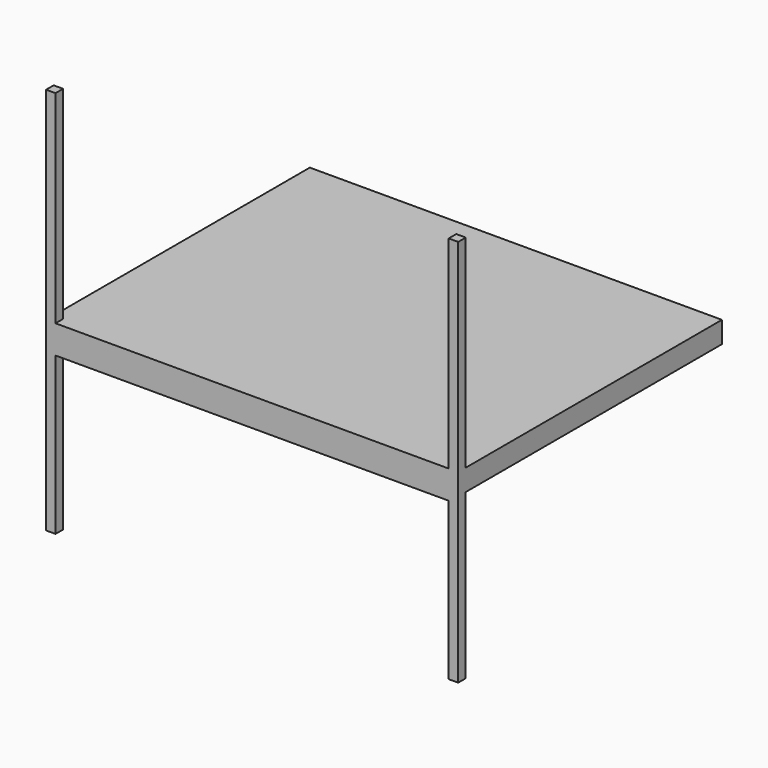
from build123d import *

# Parameters (mm, degrees)
F0_W          = 4876.8
F0_H          = 25.4
F1_DEPTH      = 6096
F2_W          = 139.7
F2_H          = 139.7
F3_DEPTH      = 2997.2
F3_DEPTH_BACK = 2743.2
F4_W          = 139.7
F4_H          = 393.7
F5_DEPTH      = 6096
F6_W          = 38.1
F6_H          = 292.1
F7_DEPTH      = 4876.8


with BuildPart() as f1:
    # F0 (on Right) → F1 (new body)
    with BuildSketch(Plane.YZ):
        with Locations((-2438.4, 2984.5)):
            Rectangle(F0_W, F0_H)
    extrude(amount=-F1_DEPTH)

    # F2 (on face) → F3 (join, two sides)
    with BuildSketch(Plane.XY.offset(2997.2)) as f3_sk:
        with Locations((-69.85, -4806.95)):
            Rectangle(F2_W, F2_H)
        with Locations((-6026.15, -4806.95)):
            Rectangle(F2_W, F2_H)
    extrude(amount=F3_DEPTH)
    extrude(f3_sk.sketch, amount=-F3_DEPTH_BACK)

    # F4 (on face) → F5 (join)
    with BuildSketch(Plane.YZ):
        with Locations((-4806.95, 2774.95)):
            Rectangle(F4_W, F4_H)
    extrude(amount=-F5_DEPTH)

    # F6 (on face) → F7 (join)
    with BuildSketch(Plane(origin=(0, 0, 0), x_dir=(-1, 0, 0), z_dir=(0, 1, 0))):
        with Locations((19.05, 2825.75)):
            Rectangle(F6_W, F6_H)
        with Locations((57.277, 2825.75)):
            Rectangle(F6_W, F6_H)
        with Locations((95.504, 2825.75)):
            Rectangle(F6_W, F6_H)
    extrude(amount=-F7_DEPTH)


solid = f1.part
